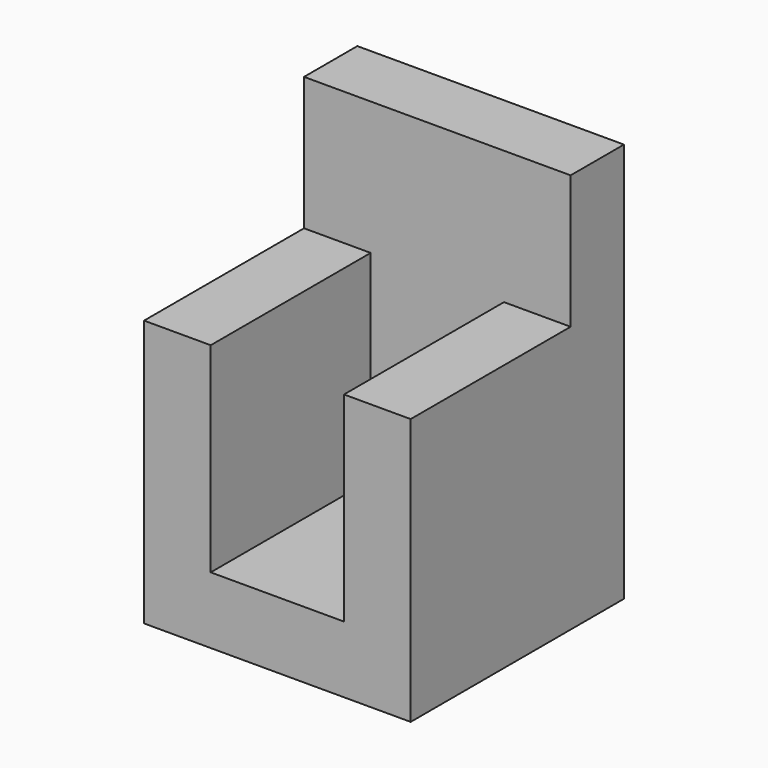
from build123d import *

# Parameters (mm, degrees)
F0_W     = 50.8
F0_H     = 76.2
F1_DEPTH = 50.8
F2_T     = -12.7
F3_W     = 12.7
F3_H     = 25.4
F4_DEPTH = 38.1


with BuildPart() as f1:
    # F0 (on Front) → F1 (new body)
    with BuildSketch(Plane.XZ):
        with Locations((25.4, -38.1)):
            Rectangle(F0_W, F0_H)
    extrude(amount=F1_DEPTH)

    # F2
    f2_openings = [f1.faces().sort_by_distance(p)[0] for p in [
        (25.4, -50.8, -38.1),
        (25.4, -25.4, 0),
    ]]
    offset(amount=F2_T, openings=f2_openings)

    # F3 (on face) → F4 (cut)
    with BuildSketch(Plane.XZ.offset(12.7)):
        with Locations((6.35, -12.7)):
            Rectangle(F3_W, F3_H)
        with Locations((44.45, -12.7)):
            Rectangle(F3_W, F3_H)
    extrude(amount=F4_DEPTH, mode=Mode.SUBTRACT)


solid = f1.part
